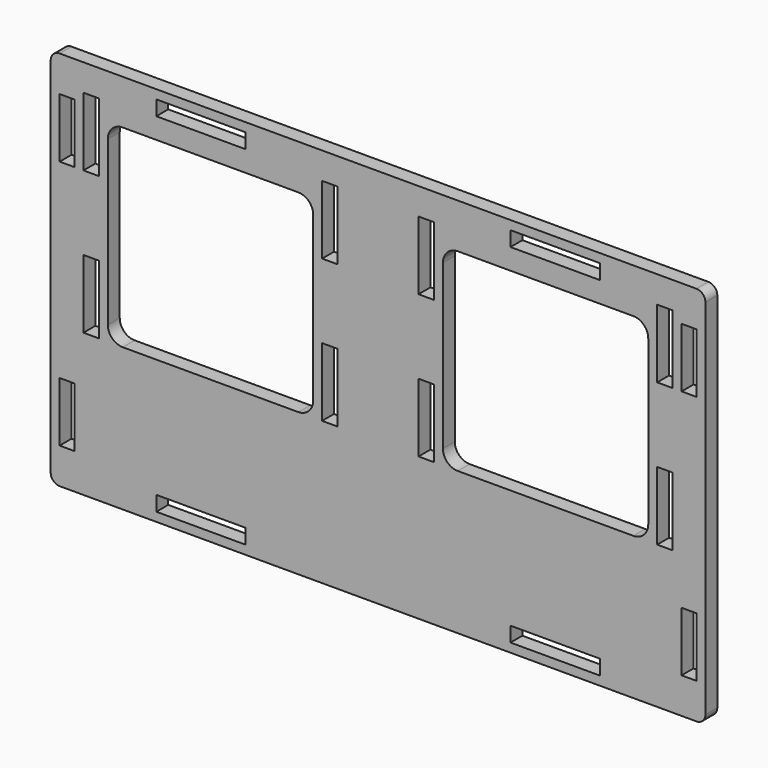
from build123d import *

# Parameters (mm, degrees)
F0_W     = 30
F0_H     = 5
F0_W_2   = 5
F0_H_2   = 20
F0_W_3   = 5.2
F0_H_3   = 23
F1_DEPTH = 5


with BuildPart() as f1:
    # F0 (on Front) → F1 (new body)
    with BuildSketch(Plane.XZ):
        with BuildLine():
            Line((107, 64), (-107, 64))
            ThreePointArc((-107, 64), (-109.12132, 63.12132), (-110, 61))
            Line((-110, 61), (-110, -61))
            ThreePointArc((-110, -61), (-109.12132, -63.12132), (-107, -64))
            Line((-107, -64), (107, -64))
            ThreePointArc((107, -64), (109.12132, -63.12132), (110, -61))
            Line((110, -61), (110, 61))
            ThreePointArc((110, 61), (109.12132, 63.12132), (107, 64))
        make_face()
        with Locations((-59.5, -58.5)):
            Rectangle(F0_W, F0_H, mode=Mode.SUBTRACT)
        with Locations((-104.5, -42)):
            Rectangle(F0_W_2, F0_H_2, mode=Mode.SUBTRACT)
        with Locations((-96.4, -4.5)):
            Rectangle(F0_W_3, F0_H_3, mode=Mode.SUBTRACT)
        with Locations((-16.2, -4.5)):
            Rectangle(F0_W_3, F0_H_3, mode=Mode.SUBTRACT)
        with Locations((59.5, -58.5)):
            Rectangle(F0_W, F0_H, mode=Mode.SUBTRACT)
        with Locations((104.5, -42)):
            Rectangle(F0_W_2, F0_H_2, mode=Mode.SUBTRACT)
        with Locations((16.2, -4.5)):
            Rectangle(F0_W_3, F0_H_3, mode=Mode.SUBTRACT)
        with Locations((96.4, -4.5)):
            Rectangle(F0_W_3, F0_H_3, mode=Mode.SUBTRACT)
        with BuildLine():
            ThreePointArc((-90.8, 44), (-89.335534, 47.535534), (-85.8, 49))
            Line((-85.8, 49), (-26.8, 49))
            ThreePointArc((-26.8, 49), (-23.264466, 47.535534), (-21.8, 44))
            Line((-21.8, 44), (-21.8, -11))
            ThreePointArc((-21.8, -11), (-23.264466, -14.535534), (-26.8, -16))
            Line((-26.8, -16), (-85.8, -16))
            ThreePointArc((-85.8, -16), (-89.335534, -14.535534), (-90.8, -11))
            Line((-90.8, -11), (-90.8, 44))
        make_face(mode=Mode.SUBTRACT)
        with Locations((-104.5, 42)):
            Rectangle(F0_W_2, F0_H_2, mode=Mode.SUBTRACT)
        with Locations((-96.4, 43.5)):
            Rectangle(F0_W_3, F0_H_3, mode=Mode.SUBTRACT)
        with Locations((-59.5, 58.5)):
            Rectangle(F0_W, F0_H, mode=Mode.SUBTRACT)
        with Locations((-16.2, 43.5)):
            Rectangle(F0_W_3, F0_H_3, mode=Mode.SUBTRACT)
        with BuildLine():
            Line((85.8, -16), (26.8, -16))
            ThreePointArc((26.8, -16), (23.264466, -14.535534), (21.8, -11))
            Line((21.8, -11), (21.8, 44))
            ThreePointArc((21.8, 44), (23.264466, 47.535534), (26.8, 49))
            Line((26.8, 49), (85.8, 49))
            ThreePointArc((85.8, 49), (89.335534, 47.535534), (90.8, 44))
            Line((90.8, 44), (90.8, -11))
            ThreePointArc((90.8, -11), (89.335534, -14.535534), (85.8, -16))
        make_face(mode=Mode.SUBTRACT)
        with Locations((16.2, 43.5)):
            Rectangle(F0_W_3, F0_H_3, mode=Mode.SUBTRACT)
        with Locations((96.4, 43.5)):
            Rectangle(F0_W_3, F0_H_3, mode=Mode.SUBTRACT)
        with Locations((104.5, 42)):
            Rectangle(F0_W_2, F0_H_2, mode=Mode.SUBTRACT)
        with Locations((59.5, 58.5)):
            Rectangle(F0_W, F0_H, mode=Mode.SUBTRACT)
    extrude(amount=F1_DEPTH)


solid = f1.part
